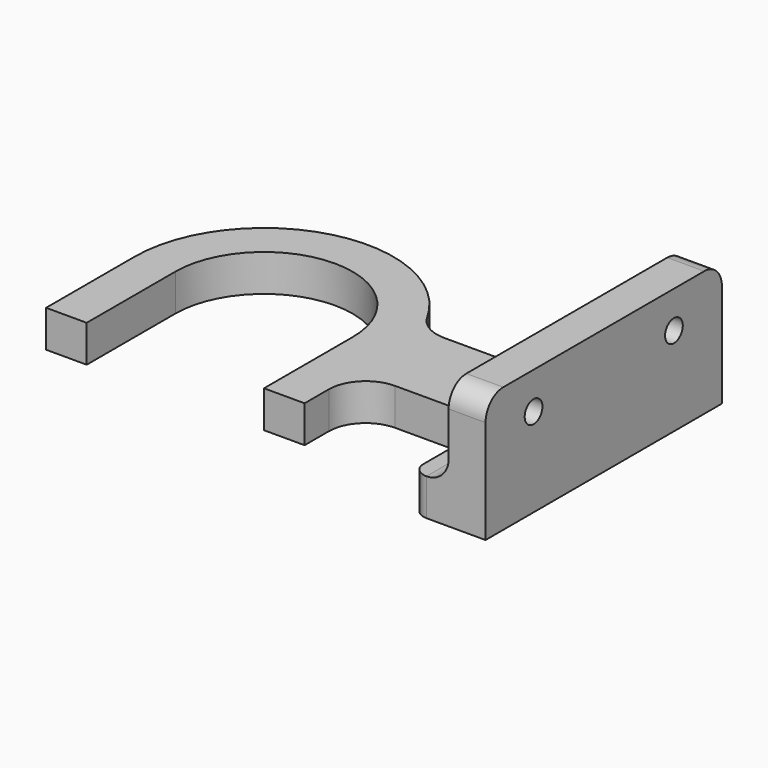
from build123d import *

# Parameters (mm, degrees)
F1_DEPTH = 5
F2_W     = 5
F2_H     = 40
F3_DEPTH = 12
F4_R     = 3
F5_R     = 1.5
F6_DEPTH = 10


with BuildPart() as f1:
    # F0 (on Top) → F1 (new body)
    with BuildSketch(Plane.XY):
        with BuildLine():
            Line((36, 18), (36, 10.910335))
            ThreePointArc((36, 10.910335), (34.535534, 7.374801), (31, 5.910335))
            Line((31, 5.910335), (19.677769, 5.910335))
            ThreePointArc((19.677769, 5.910335), (17.140309, 6.602052), (15.304931, 8.485816))
            ThreePointArc((15.304931, 8.485816), (-4.382562, 16.942348), (-17.5, 0))
            Line((-17.5, 0), (-17.5, -15))
            Line((-17.5, -15), (-12, -15))
            Line((-12, -15), (-12, 0))
            ThreePointArc((-12, 0), (0, 12), (12, 0))
            Line((12, 0), (12, -15))
            Line((12, -15), (17.5, -15))
            Line((17.5, -15), (17.5, -10.910335))
            ThreePointArc((17.5, -10.910335), (18.964466, -7.374801), (22.5, -5.910335))
            Line((22.5, -5.910335), (31, -5.910335))
            ThreePointArc((31, -5.910335), (34.535534, -7.374801), (36, -10.910335))
            Line((36, -10.910335), (36, -18))
            ThreePointArc((36, -18), (36.585786, -19.414214), (38, -20))
            Line((38, -20), (46, -20))
            Line((46, -20), (46, 0))
            Line((46, 0), (46, 20))
            Line((46, 20), (38, 20))
            ThreePointArc((38, 20), (36.585786, 19.414214), (36, 18))
        make_face()
    extrude(amount=F1_DEPTH)

    # F2 (on face) → F3 (join)
    with BuildSketch(Plane.XY.offset(5)):
        with Locations((43.5, 0)):
            Rectangle(F2_W, F2_H)
    extrude(amount=F3_DEPTH)

    # F4
    f4_edges = [f1.edges().sort_by_distance(p)[0] for p in [
        (41, 0, 5),
        (43.5, 20, 17),
        (43.5, -20, 17),
    ]]
    fillet(f4_edges, radius=F4_R)

    # F5 (on face) → F6 (cut)
    with BuildSketch(Plane(origin=(41, 0, 0), x_dir=(0, -1, 0), z_dir=(-1, 0, 0))):
        with Locations((-11.877556, 12)):
            Circle(F5_R)
        with Locations((11.877556, 12)):
            Circle(F5_R)
    extrude(amount=-F6_DEPTH, mode=Mode.SUBTRACT)


solid = f1.part
